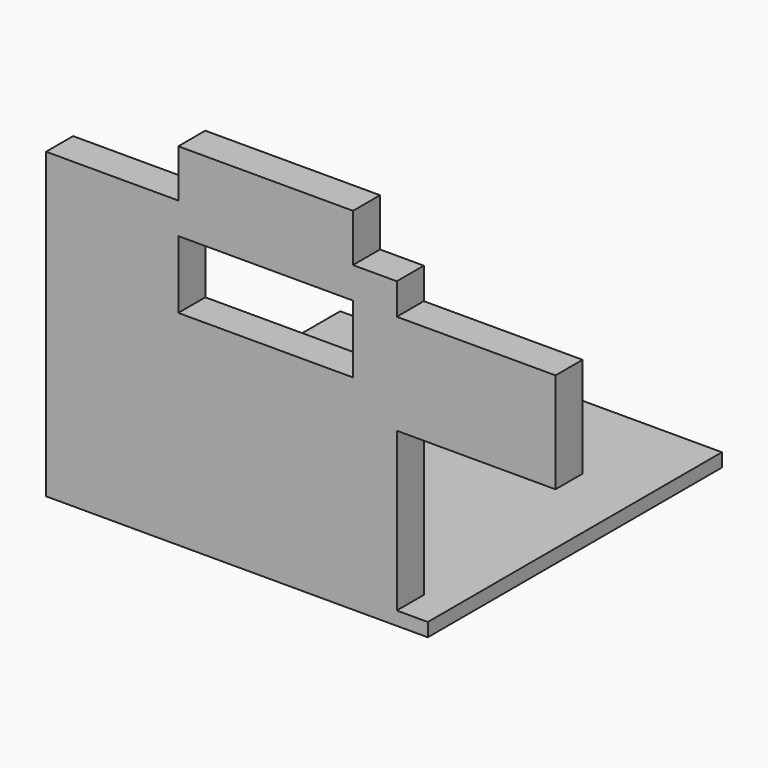
from build123d import *

# Parameters (mm, degrees)
F0_W     = 282.4513912201
F0_H     = 272.032558918
F1_DEPTH = 10
F2_W     = 117.4558103085
F2_H     = 74.2251574993
F2_W_2   = 129.2622610927
F2_H_2   = 35.3512316942
F2_W_3   = 32.4037969112
F2_H_3   = 23.1244415045
F3_DEPTH = 25


with BuildPart() as f1:
    # F0 (on Top) → F1 (new body)
    with BuildSketch(Plane.XY):
        with Locations((141.22569561, 136.016279459)):
            Rectangle(F0_W, F0_H)
    extrude(amount=F1_DEPTH)

    # F2 (on Front) → F3 (join)
    with BuildSketch(Plane.XZ):
        Polygon((0, 224.4927436113), (0, 0), (259.4906687737, 0), (259.4906687737, 127.1431446075), (91.9226109982, 127.1431446075), (91.9226109982, 201.3683021069), (97.8246107697, 201.3683021069), (97.8246107697, 224.4927436113), align=None)
        with Locations((318.2185739279, 164.2557233572)):
            Rectangle(F2_W, F2_H)
        with Locations((162.4557413161, 242.1683594584)):
            Rectangle(F2_W_2, F2_H_2)
        with Locations((243.288770318, 212.9305228591)):
            Rectangle(F2_W_3, F2_H_3)
        with Locations((162.4557413161, 212.9305228591)):
            Rectangle(F2_W_2, F2_H_3)
        Polygon((91.9226109982, 127.1431446075), (259.4906687737, 127.1431446075), (259.4906687737, 201.3683021069), (227.0868718624, 201.3683021069), (227.0868718624, 151.2915790081), (97.8246107697, 151.2915790081), (97.8246107697, 201.3683021069), (91.9226109982, 201.3683021069), align=None)
    extrude(amount=-F3_DEPTH)


solid = f1.part
